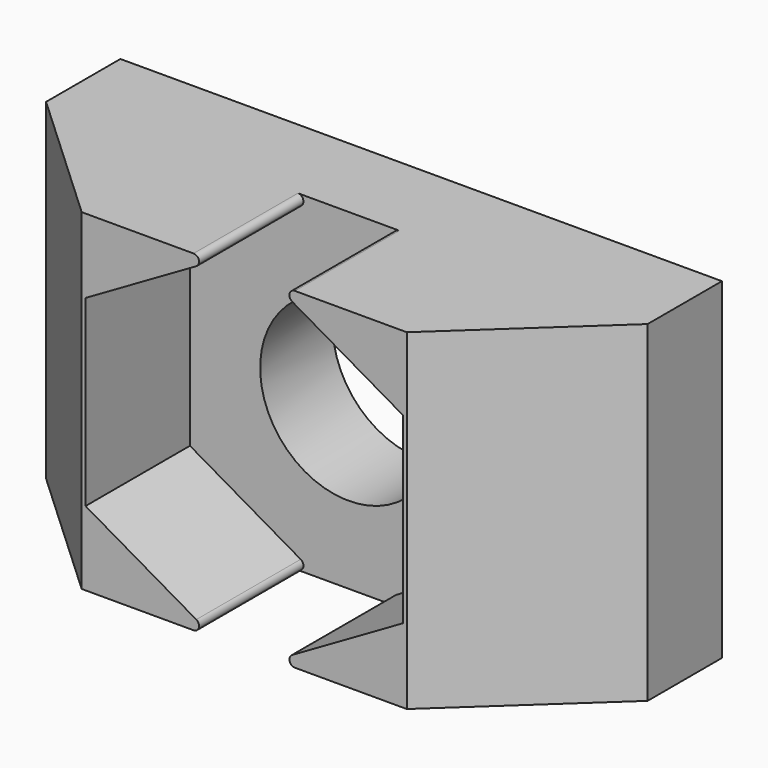
from build123d import *

# Parameters (mm, degrees)
PAD_DEPTH       = 6
SKETCH001_R     = 1.6
POCKET_DEPTH    = 4.001
POCKET001_DEPTH = 2.36
FILLET_R        = 0.1


with BuildPart() as part:
    # Sketch → Pad (new body)
    with BuildSketch(Plane.XY):
        Polygon((0, 0), (-5.44, 0), (-5.44, -1.68), (-2.94, -4), (0, -4), (2.94, -4), (5.44, -1.68), (5.44, 0), align=None)
    extrude(amount=PAD_DEPTH)

    # Sketch001 (on Face5 of Pad) → Pocket (cut, through all)
    with BuildSketch(Plane.XZ.offset(4)):
        with Locations((0, 3)):
            Circle(SKETCH001_R)
    extrude(amount=-POCKET_DEPTH, mode=Mode.SUBTRACT)

    # Sketch002 (on Face8 of Pocket) → Pocket001 (cut)
    with BuildSketch(Plane.XZ.offset(4)):
        Polygon((-2.87, 4.656995), (-2.87, 1.343005), (0, -0.313991), (2.87, 1.343005), (2.87, 4.656995), (0, 6.313991), align=None)
    extrude(amount=-POCKET001_DEPTH, mode=Mode.SUBTRACT)

    # Fillet
    fillet_edges = [part.edges().sort_by_distance(p)[0] for p in [
        (-0.543848, -2.82, 6),
        (0.543848, -2.82, 6),
        (0.543848, -2.82, 0),
        (-0.543848, -2.82, 0),
    ]]
    fillet(fillet_edges, radius=FILLET_R)


solid = part.part
